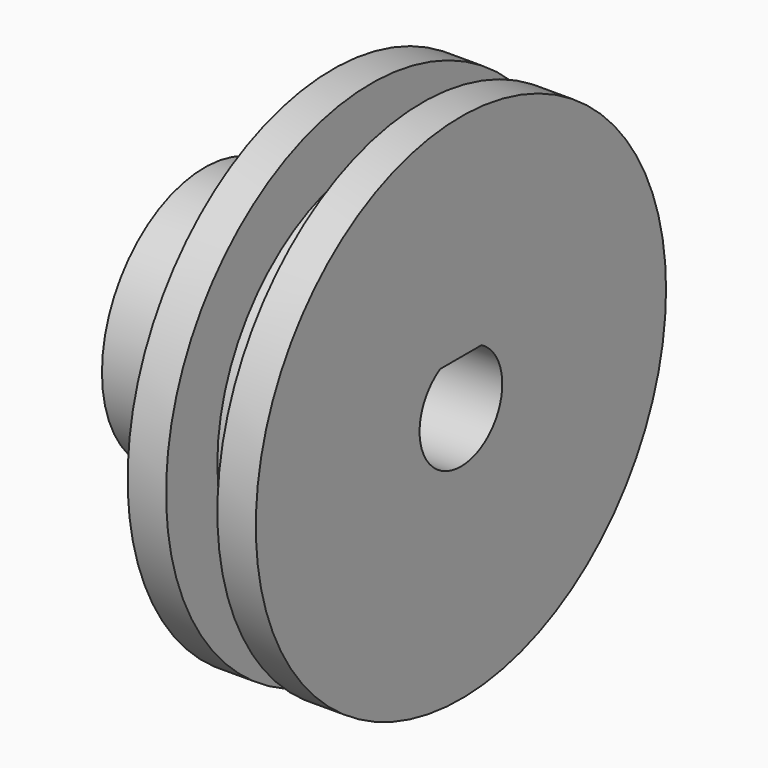
from build123d import *

# Parameters (mm, degrees)
F0_R     = 25.4
F1_DEPTH = 6.35
F2_R     = 25.4
F2_R_2   = 19.05
F3_DEPTH = 2.54
F5_R     = 12.7
F6_DEPTH = 12.7
F7_DEPTH = 25.401


with BuildPart() as f1:
    # F0 (on Right) → F1 (new body, symmetric)
    with BuildSketch(Plane.YZ):
        Circle(F0_R)
    extrude(amount=F1_DEPTH, both=True)

    # F2 (on Right) → F3 (cut, symmetric)
    with BuildSketch(Plane.YZ):
        Circle(F2_R)
        Circle(F2_R_2, mode=Mode.SUBTRACT)
    extrude(amount=F3_DEPTH, both=True, mode=Mode.SUBTRACT)

    # F5 (on face) → F6 (join)
    with BuildSketch(Plane(origin=(-6.35, 0, 0), x_dir=(0, -1, 0), z_dir=(-1, 0, 0))):
        Circle(F5_R)
    extrude(amount=F6_DEPTH)

    # F4 (on face) → F7 (cut, through all)
    with BuildSketch(Plane.YZ.offset(6.35)):
        with BuildLine():
            Line((2.567312, 4.430939), (-2.567312, 4.430939))
            ThreePointArc((-2.567312, 4.430939), (0, -5.120968), (2.567312, 4.430939))
        make_face()
    extrude(amount=-F7_DEPTH, mode=Mode.SUBTRACT)


solid = f1.part
